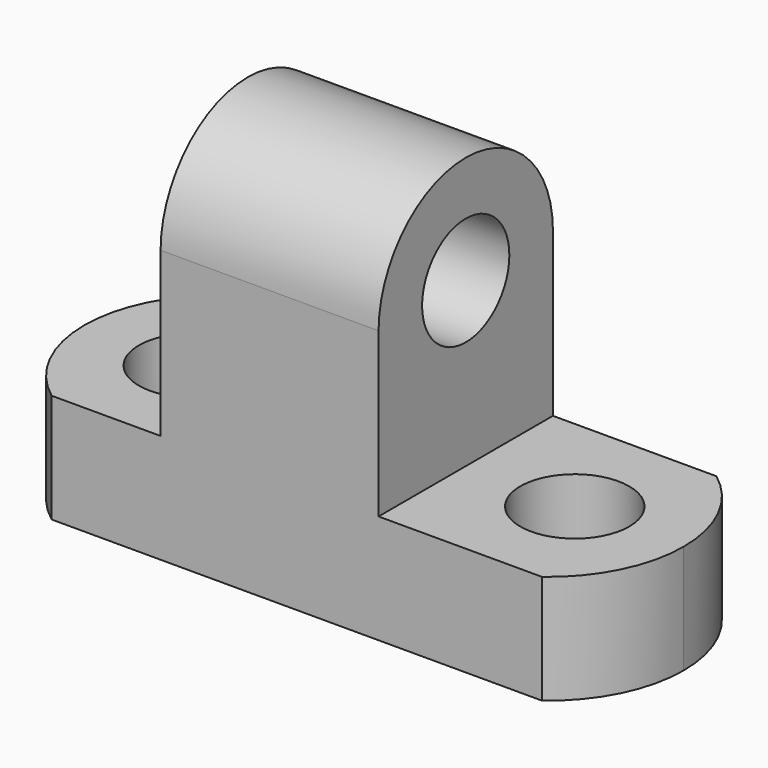
from build123d import *

# Parameters (mm, degrees)
F1_DEPTH = 25.4
F2_R     = 6.35
F3_DEPTH = 25.4
F5_DEPTH = 25.4
F6_R     = 6.35
F7_DEPTH = 25.4


with BuildPart() as f1:
    # F0 (on Front) → F1 (new body)
    with BuildSketch(Plane.XZ):
        Polygon((0, 12.7), (0, 0), (69.85, 0), (69.85, 12.7), (44.45, 12.7), (44.45, 44.45), (19.05, 44.45), (19.05, 12.7), align=None)
    extrude(amount=F1_DEPTH)

    # F2 (on face) → F3 (cut)
    with BuildSketch(Plane.XY.offset(12.7)):
        with Locations((12.7, -12.7)):
            Circle(F2_R)
        with Locations((57.15, -12.7)):
            Circle(F2_R)
        with BuildLine():
            ThreePointArc((69.85, -12.7), (68.1740316571, -19.7995158286), (63.5, -25.4))
            Line((63.5, -25.4), (69.85, -25.4))
            Line((69.85, -25.4), (69.85, -12.7))
        make_face()
        with BuildLine():
            ThreePointArc((63.5, 0), (68.1740316571, -5.6004841714), (69.85, -12.7))
            Line((69.85, -12.7), (69.85, 0))
            Line((69.85, 0), (63.5, 0))
        make_face()
    extrude(amount=-F3_DEPTH, mode=Mode.SUBTRACT)

    # F4 (on face) → F5 (cut)
    with BuildSketch(Plane.XY.offset(12.7)):
        with BuildLine():
            ThreePointArc((0, -12.7), (1.6759683429, -5.6004841714), (6.35, 0))
            Line((6.35, 0), (0, 0))
            Line((0, 0), (0, -12.7))
        make_face()
        with BuildLine():
            ThreePointArc((6.35, -25.4), (1.6759683429, -19.7995158286), (0, -12.7))
            Line((0, -12.7), (0, -25.4))
            Line((0, -25.4), (6.35, -25.4))
        make_face()
    extrude(amount=-F5_DEPTH, mode=Mode.SUBTRACT)

    # F6 (on face) → F7 (cut)
    with BuildSketch(Plane.YZ.offset(44.45)):
        with BuildLine():
            ThreePointArc((-25.4, 31.75), (-12.7, 44.3458432454), (0, 31.75))
            Line((0, 31.75), (0, 44.45))
            Line((0, 44.45), (-25.4, 44.45))
            Line((-25.4, 44.45), (-25.4, 31.75))
        make_face()
        with Locations((-12.7, 31.75)):
            Circle(F6_R)
    extrude(amount=-F7_DEPTH, mode=Mode.SUBTRACT)


solid = f1.part
